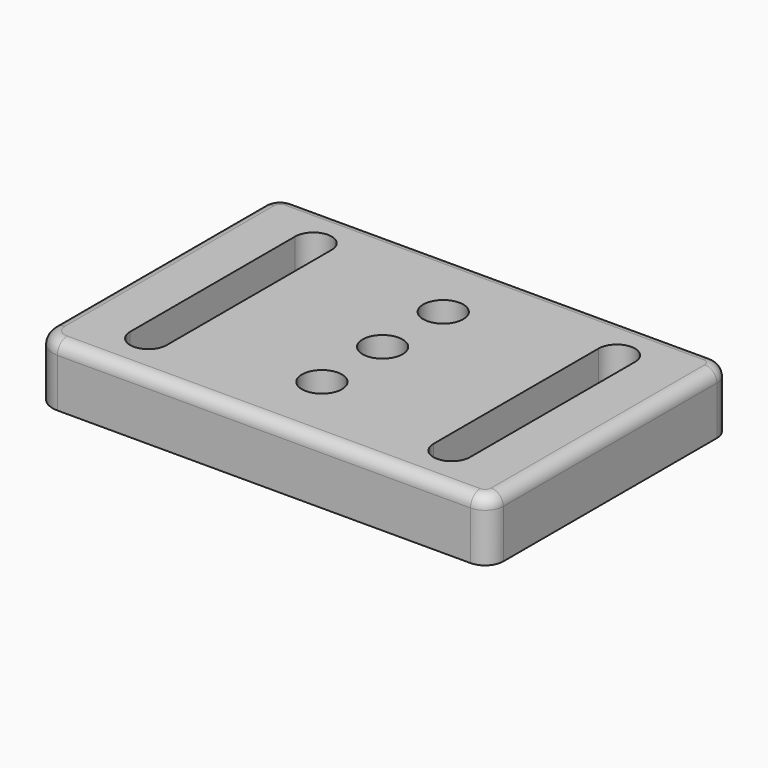
from build123d import *

# Parameters (mm, degrees)
PAD_DEPTH        = 10
HOLE_D           = 6.6
HOLE_DEPTH       = 25
HOLE_CBORE_D     = 11
HOLE_CBORE_DEPTH = 6.4
FILLET_R         = 2


with BuildPart() as part:
    # Sketch → Pad (new body)
    with BuildSketch(Plane.XY):
        with BuildLine():
            Line((-34.5, 25), (34.5, 25))
            ThreePointArc((37.5, 22), (36.62132, 24.12132), (34.5, 25))
            Line((37.5, 22), (37.5, -22))
            ThreePointArc((34.5, -25), (36.62132, -24.12132), (37.5, -22))
            Line((34.5, -25), (-33.596236, -25))
            ThreePointArc((-37.5, -21.096236), (-36.356614, -23.856614), (-33.596236, -25))
            Line((-37.5, -21.096236), (-37.5, 22))
            ThreePointArc((-34.5, 25), (-36.62132, 24.12132), (-37.5, 22))
        make_face()
        with BuildLine():
            ThreePointArc((-22, 17), (-25, 20), (-28, 17))
            Line((-28, 17), (-28, -17))
            ThreePointArc((-28, -17), (-25, -20), (-22, -17))
            Line((-22, -17), (-22, 17))
        make_face(mode=Mode.SUBTRACT)
        with BuildLine():
            ThreePointArc((28, 17), (25, 20), (22, 17))
            Line((22, 17), (22, -17))
            ThreePointArc((22, -17), (25, -20), (28, -17))
            Line((28, -17), (28, 17))
        make_face(mode=Mode.SUBTRACT)
    extrude(amount=PAD_DEPTH)

    # Hole
    with Locations(Plane(origin=(0, 0, 0), x_dir=(1, 0, 0), z_dir=(0, 0, -1))):
        with Locations((0, 0), (0, 12.5), (0, -12.5)):
            CounterBoreHole(HOLE_D / 2, HOLE_CBORE_D / 2, HOLE_CBORE_DEPTH, depth=HOLE_DEPTH)

    # Fillet
    fillet_edges = [part.edges().sort_by_distance(p)[0] for p in [
        (0.451882, -25, 10),
    ]]
    fillet(fillet_edges, radius=FILLET_R)


solid = part.part
